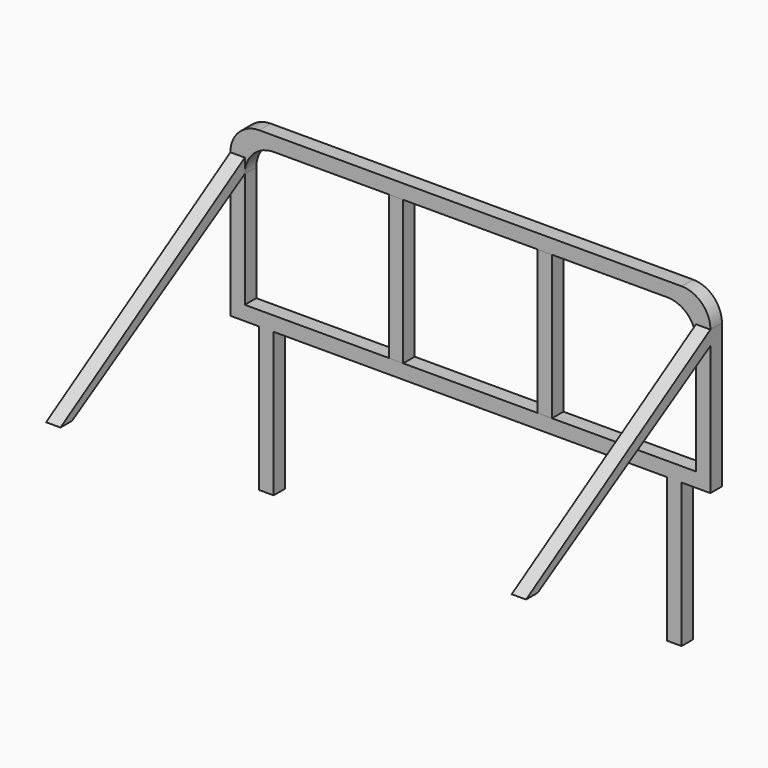
from build123d import *

# Parameters (mm, degrees)
F1_DEPTH  = 38.1
F3_DEPTH  = 38.1
F4_W      = 38.1
F4_H      = 381
F5_DEPTH  = 38.1
F7_DEPTH  = 38.1
F9_DEPTH  = 38.1
F11_DEPTH = 38.1
F13_DEPTH = 38.1
F14_W     = 38.1
F14_H     = 381
F15_DEPTH = 38.1


with BuildPart() as f1:
    # F0 (on Front) → F1 (new body)
    with BuildSketch(Plane.XZ):
        with BuildLine():
            Line((568.87425, 197.899858), (-548.72575, 197.899858))
            ThreePointArc((-548.72575, 197.899858), (-602.607286, 175.581394), (-624.92575, 121.699858))
            Line((-624.92575, 121.699858), (-624.92575, -259.300142))
            Line((-624.92575, -259.300142), (645.07425, -259.300142))
            Line((645.07425, -259.300142), (645.07425, 121.699858))
            ThreePointArc((645.07425, 121.699858), (622.755787, 175.581394), (568.87425, 197.899858))
        make_face()
    extrude(amount=F1_DEPTH)

    # F2 (on face) → F3 (cut)
    with BuildSketch(Plane.XZ.offset(38.1)):
        with BuildLine():
            Line((530.77425, 159.799858), (-510.62575, 159.799858))
            ThreePointArc((-510.62575, 159.799858), (-564.507286, 137.481394), (-586.82575, 83.599858))
            Line((-586.82575, 83.599858), (-586.82575, -221.200142))
            Line((-586.82575, -221.200142), (606.97425, -221.200142))
            Line((606.97425, -221.200142), (606.97425, 83.599858))
            ThreePointArc((606.97425, 83.599858), (584.655787, 137.481394), (530.77425, 159.799858))
        make_face()
    extrude(amount=-F3_DEPTH, mode=Mode.SUBTRACT)

    # F6 (on face) → F7 (join)
    with BuildSketch(Plane.YZ.offset(645.07425)):
        Polygon((-38.1, -259.300142), (-38.1, 121.699858), (-647.7, -259.300142), align=None)
    extrude(amount=-F7_DEPTH)

    # F8 (on face) → F9 (cut)
    with BuildSketch(Plane.YZ.offset(645.07425)):
        Polygon((-38.1, 83.599858), (-609.6, -259.300142), (-38.1, -259.300142), align=None)
    extrude(amount=-F9_DEPTH, mode=Mode.SUBTRACT)

    # F10 (on face) → F11 (join)
    with BuildSketch(Plane(origin=(-624.92575, 0, 0), x_dir=(0, -1, 0), z_dir=(-1, 0, 0))):
        Polygon((647.7, -259.300142), (38.1, 121.699858), (38.1, -259.300142), align=None)
    extrude(amount=-F11_DEPTH)

    # F12 (on face) → F13 (cut)
    with BuildSketch(Plane(origin=(-624.92575, 0, 0), x_dir=(0, -1, 0), z_dir=(-1, 0, 0))):
        Polygon((38.1, 83.599858), (38.1, -259.300142), (609.6, -259.300142), align=None)
    extrude(amount=-F13_DEPTH, mode=Mode.SUBTRACT)

    # F14 (on face) → F15 (join)
    with BuildSketch(Plane.XZ.offset(38.1)):
        with Locations((-529.67575, -449.800142)):
            Rectangle(F14_W, F14_H)
        with Locations((549.82425, -449.800142)):
            Rectangle(F14_W, F14_H)
    extrude(amount=-F15_DEPTH)


with BuildPart() as f5:
    # F4 (on face) → F5 (new body)
    with BuildSketch(Plane.XZ.offset(38.1)):
        with Locations((-186.77575, -30.700142)):
            Rectangle(F4_W, F4_H)
        with Locations((206.92425, -30.700142)):
            Rectangle(F4_W, F4_H)
    extrude(amount=-F5_DEPTH)


solid = Compound([f1.part, f5.part])
